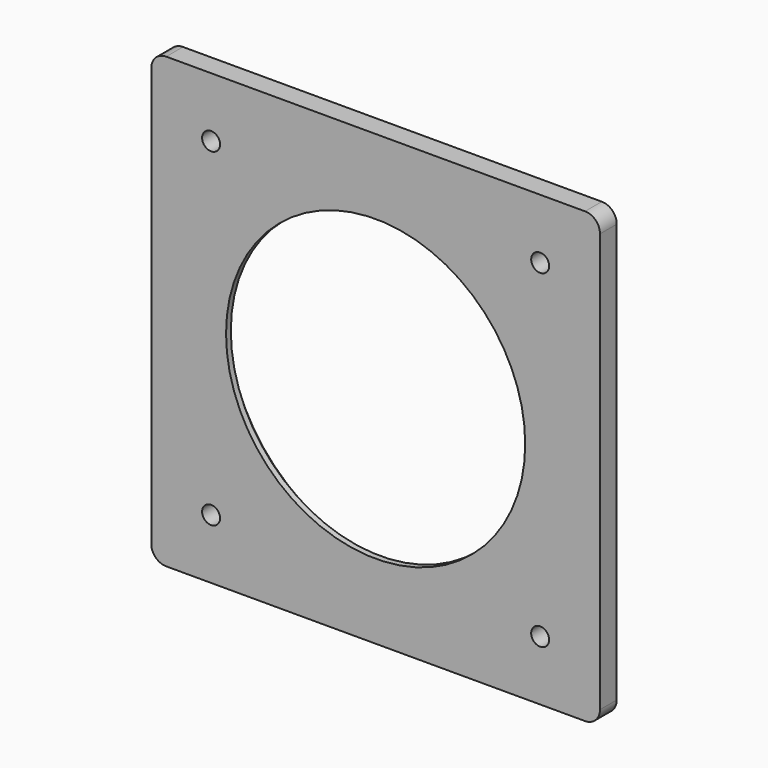
from build123d import *

# Parameters (mm, degrees)
F0_W     = 150
F0_H     = 150
F0_R     = 3
F0_R_2   = 50
F1_DEPTH = 7
F2_SIZE2 = 5
F2_SIZE  = 5
F3_R     = 5


with BuildPart() as f1:
    # F0 (on Front) → F1 (new body)
    with BuildSketch(Plane.XZ):
        Rectangle(F0_W, F0_H)
        with Locations((-55, -55)):
            Circle(F0_R, mode=Mode.SUBTRACT)
        with Locations((55, -55)):
            Circle(F0_R, mode=Mode.SUBTRACT)
        with Locations((-55, 55)):
            Circle(F0_R, mode=Mode.SUBTRACT)
        Circle(F0_R_2, mode=Mode.SUBTRACT)
        with Locations((55, 55)):
            Circle(F0_R, mode=Mode.SUBTRACT)
    extrude(amount=F1_DEPTH)

    # F2
    f2_edges = [f1.edges().sort_by_distance(p)[0] for p in [
        (-50, 0, 0),
    ]]
    chamfer(f2_edges, length=F2_SIZE, length2=F2_SIZE2)

    # F3
    f3_edges = [f1.edges().sort_by_distance(p)[0] for p in [
        (75, -3.5, 75),
        (-75, -3.5, 75),
        (-75, -3.5, -75),
        (75, -3.5, -75),
    ]]
    fillet(f3_edges, radius=F3_R)


solid = f1.part
